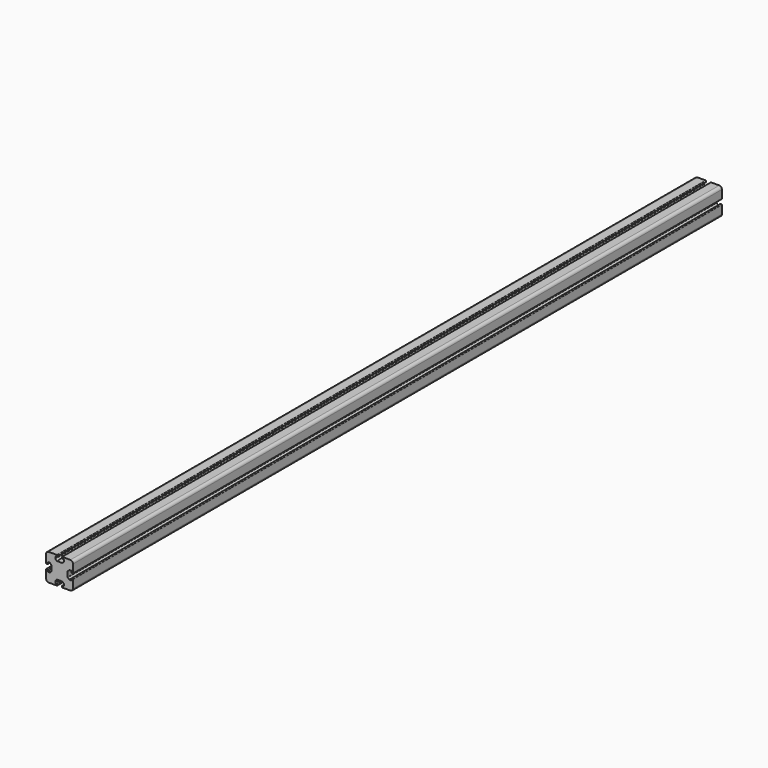
from build123d import *

# Parameters (mm, degrees)
F1_DEPTH = 1500
F2_R     = 5
F3_R     = 1


with BuildPart() as f1:
    # F0 (on Front) → F1 (new body)
    with BuildSketch(Plane.XZ):
        Polygon((-15, 5), (-15, 0), (-15, -5), (-18, -8), (-22, -8), (-22, -4), (-25, -4), (-25, -25), (-4, -25), (-4, -22), (-8, -22), (-8, -18), (-5, -15), (0, -15), (5, -15), (8, -18), (8, -22), (4, -22), (4, -25), (25, -25), (25, -4), (22, -4), (22, -8), (18, -8), (15, -5), (15, 0), (15, 5), (18, 8), (22, 8), (22, 4), (25, 4), (25, 25), (4, 25), (4, 22), (8, 22), (8, 18), (5, 15), (0, 15), (-5, 15), (-8, 18), (-8, 22), (-4, 22), (-4, 25), (-25, 25), (-25, 4), (-22, 4), (-22, 8), (-18, 8), align=None)
    extrude(amount=F1_DEPTH)

    # F2
    f2_edges = [f1.edges().sort_by_distance(p)[0] for p in [
        (25, -750, 25),
        (25, -750, -25),
        (-25, -750, 25),
        (-25, -750, -25),
    ]]
    fillet(f2_edges, radius=F2_R)

    # F3
    f3_edges = [f1.edges().sort_by_distance(p)[0] for p in [
        (-4, -750, 25),
        (4, -750, 25),
        (4, -750, 22),
        (8, -750, 18),
        (5, -750, 15),
        (-8, -750, 18),
        (-5, -750, 15),
        (-8, -750, 22),
        (15, -750, 5),
        (15, -750, -5),
        (22, -750, 8),
        (22, -750, 4),
        (25, -750, 4),
        (8, -750, 22),
        (-4, -750, 22),
        (18, -750, -8),
        (22, -750, -8),
        (22, -750, -4),
        (25, -750, -4),
        (4, -750, -25),
        (8, -750, -22),
        (-8, -750, -18),
        (-5, -750, -15),
        (-4, -750, -22),
        (-4, -750, -25),
        (-8, -750, -22),
        (18, -750, 8),
        (8, -750, -18),
        (5, -750, -15),
        (4, -750, -22),
        (-25, -750, 4),
        (-22, -750, 4),
        (-22, -750, 8),
        (-18, -750, 8),
        (-22, -750, -4),
        (-25, -750, -4),
        (-18, -750, -8),
        (-15, -750, 5),
        (-15, -750, -5),
        (-22, -750, -8),
    ]]
    fillet(f3_edges, radius=F3_R)


solid = f1.part
